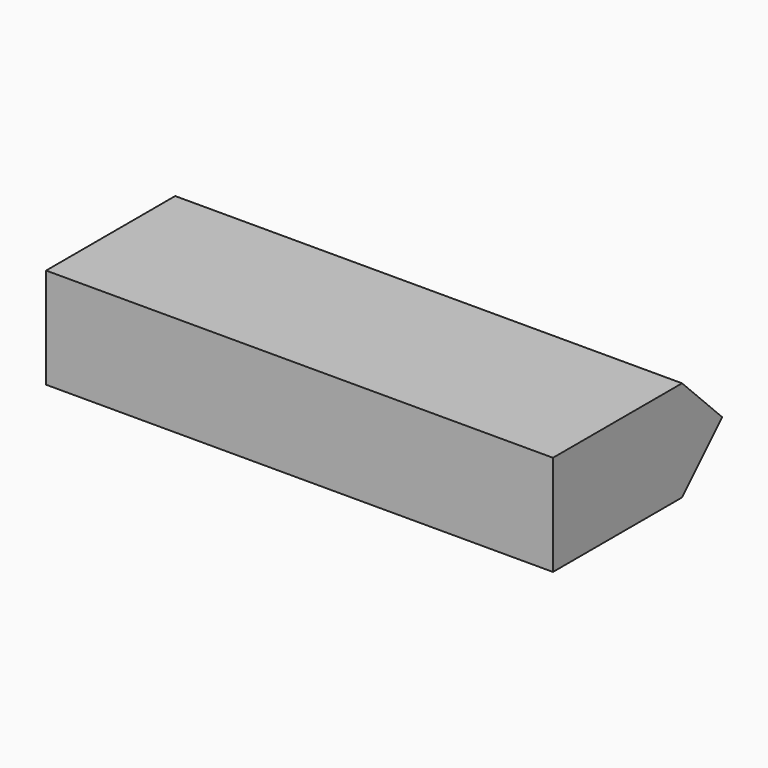
from build123d import *

# Parameters (mm, degrees)
F0_W      = 152.4
F0_H      = 63.5
F1_DEPTH  = 15.24
F2_SIZE   = 14.986
F1_FACE_W = 152.4
F1_FACE_H = 63.5
F3_DEPTH  = 14.986
F4_SIZE   = 14.986


with BuildPart() as f1:
    # F0 (on Top) → F1 (new body)
    with BuildSketch(Plane.XY):
        with Locations((-13.443335, 12.47429)):
            Rectangle(F0_W, F0_H)
    extrude(amount=F1_DEPTH)

    # F2
    f2_edges = [f1.edges().sort_by_distance(p)[0] for p in [
        (-13.443335, 44.22429, 15.24),
    ]]
    chamfer(f2_edges, length=F2_SIZE)

    # F1_face (on face) → F3 (join)
    with BuildSketch(Plane(origin=(-13.443335, 12.47429, 0), x_dir=(1, 0, 0), z_dir=(0, 0, -1))):
        Rectangle(F1_FACE_W, F1_FACE_H)
    extrude(amount=F3_DEPTH)

    # F4
    f4_edges = [f1.edges().sort_by_distance(p)[0] for p in [
        (-13.443335, 44.22429, -14.986),
    ]]
    chamfer(f4_edges, length=F4_SIZE)


solid = f1.part
